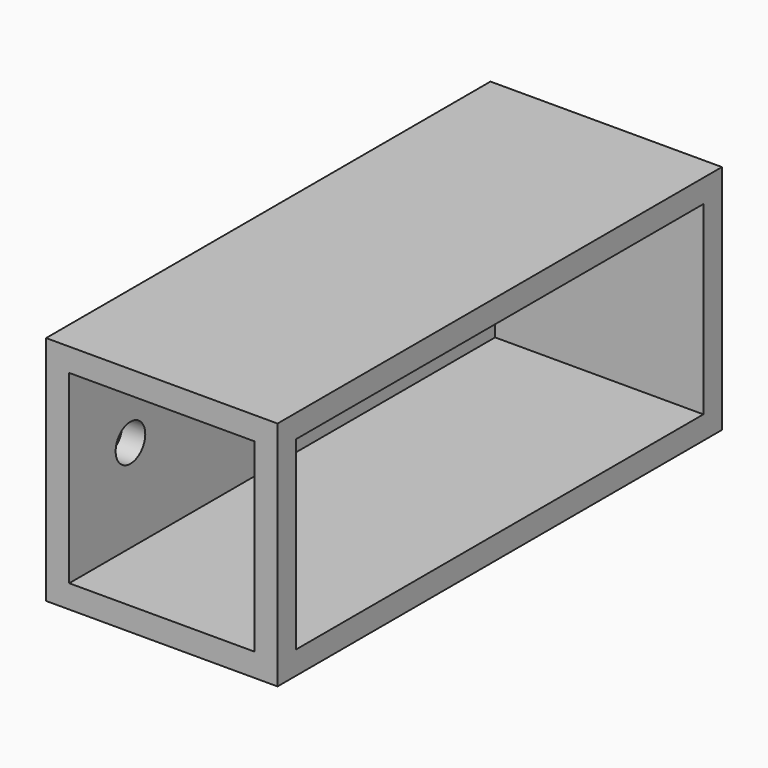
from build123d import *

# Parameters (mm, degrees)
F0_W     = 250
F0_H     = 250
F1_DEPTH = 600
F2_W     = 200
F2_H     = 200
F3_DEPTH = 575
F4_W     = 550
F4_H     = 200
F5_DEPTH = 48
F7_D     = 40
F7_DEPTH = 25


with BuildPart() as f1:
    # F0 (on Front) → F1 (new body)
    with BuildSketch(Plane.XZ):
        Rectangle(F0_W, F0_H)
    extrude(amount=-F1_DEPTH)

    # F2 (on face) → F3 (cut)
    with BuildSketch(Plane.XZ):
        Rectangle(F2_W, F2_H)
    extrude(amount=-F3_DEPTH, mode=Mode.SUBTRACT)

    # F4 (on face) → F5 (cut)
    with BuildSketch(Plane.YZ.offset(125)):
        with Locations((300, 0)):
            Rectangle(F4_W, F4_H)
    extrude(amount=-F5_DEPTH, mode=Mode.SUBTRACT)

    # F7
    with Locations(Plane(origin=(-125, 0, 0), x_dir=(0, -1, 0), z_dir=(-1, 0, 0))):
        with Locations((-82.651734, 0)):
            Hole(F7_D / 2, depth=F7_DEPTH)


solid = f1.part
